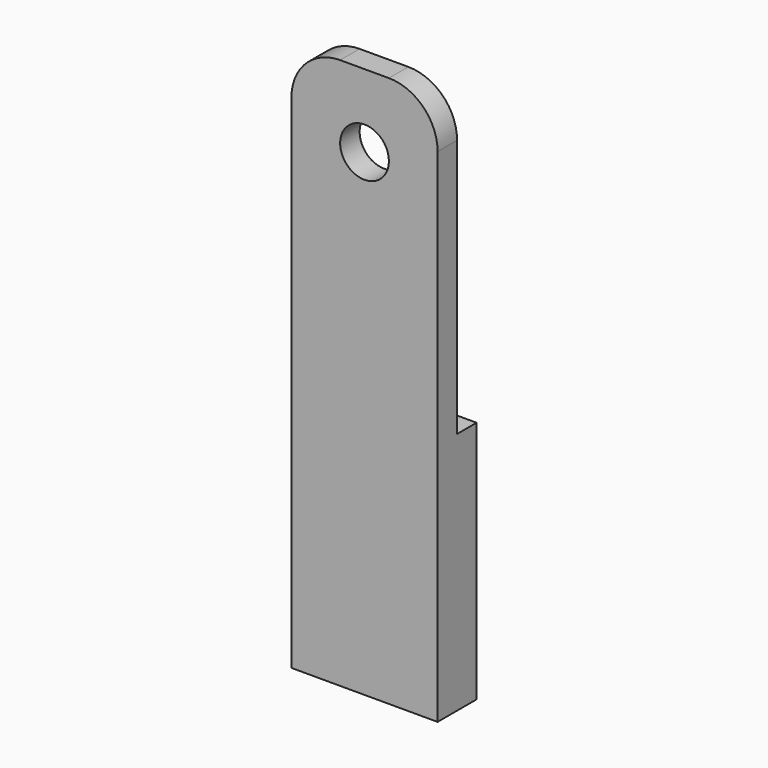
from build123d import *

# Parameters (mm, degrees)
F0_W     = 30
F0_H     = 113.08
F0_R     = 5
F1_DEPTH = 5
F2_R     = 10
F3_W     = 30
F3_H     = 50
F4_DEPTH = 5


with BuildPart() as f1:
    # F0 (on Front) → F1 (new body)
    with BuildSketch(Plane.XZ):
        Rectangle(F0_W, F0_H)
        with Locations((0, 41.54)):
            Circle(F0_R, mode=Mode.SUBTRACT)
    extrude(amount=F1_DEPTH)

    # F2
    f2_edges = [f1.edges().sort_by_distance(p)[0] for p in [
        (15, -2.5, 56.54),
        (-15, -2.5, 56.54),
    ]]
    fillet(f2_edges, radius=F2_R)

    # F3 (on face) → F4 (join)
    with BuildSketch(Plane(origin=(0, 0, 0), x_dir=(-1, 0, 0), z_dir=(0, 1, 0))):
        with Locations((0, -31.54)):
            Rectangle(F3_W, F3_H)
    extrude(amount=F4_DEPTH)


solid = f1.part
